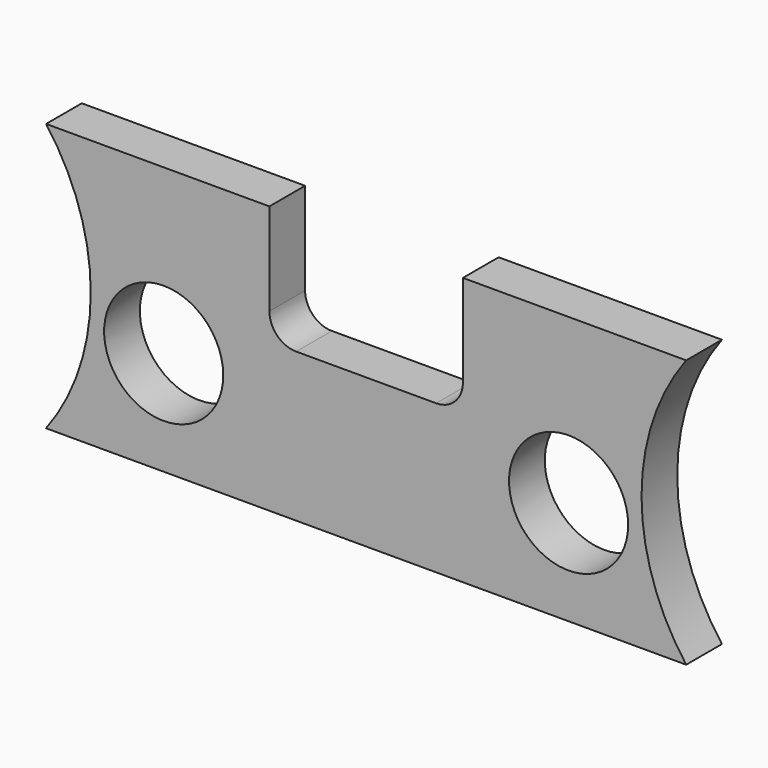
from build123d import *

# Parameters (mm, degrees)
F0_W     = 273.05
F0_H     = 114.3
F1_DEPTH = 19.05
F3_DEPTH = 25.4
F4_R     = 25.4
F5_DEPTH = 25.4


with BuildPart() as f1:
    # F0 (on Front) → F1 (new body)
    with BuildSketch(Plane.XZ):
        with Locations((136.525, 57.15)):
            Rectangle(F0_W, F0_H)
    extrude(amount=F1_DEPTH)

    # F2 (on face) → F3 (cut)
    with BuildSketch(Plane.XZ.offset(19.05)):
        with BuildLine():
            Line((0, 114.3), (0, 0))
            ThreePointArc((0, 0), (19.05, 57.15), (0, 114.3))
        make_face()
        with BuildLine():
            ThreePointArc((273.05, 114.3), (254, 57.15), (273.05, 0))
            Line((273.05, 0), (273.05, 114.3))
        make_face()
    extrude(amount=-F3_DEPTH, mode=Mode.SUBTRACT)

    # F4 (on face) → F5 (cut)
    with BuildSketch(Plane.XZ.offset(19.05)):
        with BuildLine():
            Line((177.8, 114.3), (95.25, 114.3))
            Line((95.25, 114.3), (95.25, 74.93))
            ThreePointArc((95.25, 74.93), (106.68, 86.36), (118.11, 74.93))
            ThreePointArc((118.11, 74.93), (114.762231, 66.847769), (106.68, 63.5))
            Line((106.68, 63.5), (166.37, 63.5))
            ThreePointArc((166.37, 63.5), (158.287769, 83.012231), (177.8, 74.93))
            Line((177.8, 74.93), (177.8, 114.3))
        make_face()
        with Locations((50.163405, 44.45)):
            Circle(F4_R)
        with Locations((222.886595, 44.45)):
            Circle(F4_R)
        with BuildLine():
            ThreePointArc((166.37, 63.5), (174.452231, 66.847769), (177.8, 74.93))
            ThreePointArc((177.8, 74.93), (158.287769, 83.012231), (166.37, 63.5))
        make_face()
        with BuildLine():
            ThreePointArc((118.11, 74.93), (106.68, 86.36), (95.25, 74.93))
            ThreePointArc((95.25, 74.93), (98.597769, 66.847769), (106.68, 63.5))
            ThreePointArc((106.68, 63.5), (114.762231, 66.847769), (118.11, 74.93))
        make_face()
    extrude(amount=-F5_DEPTH, mode=Mode.SUBTRACT)


solid = f1.part
